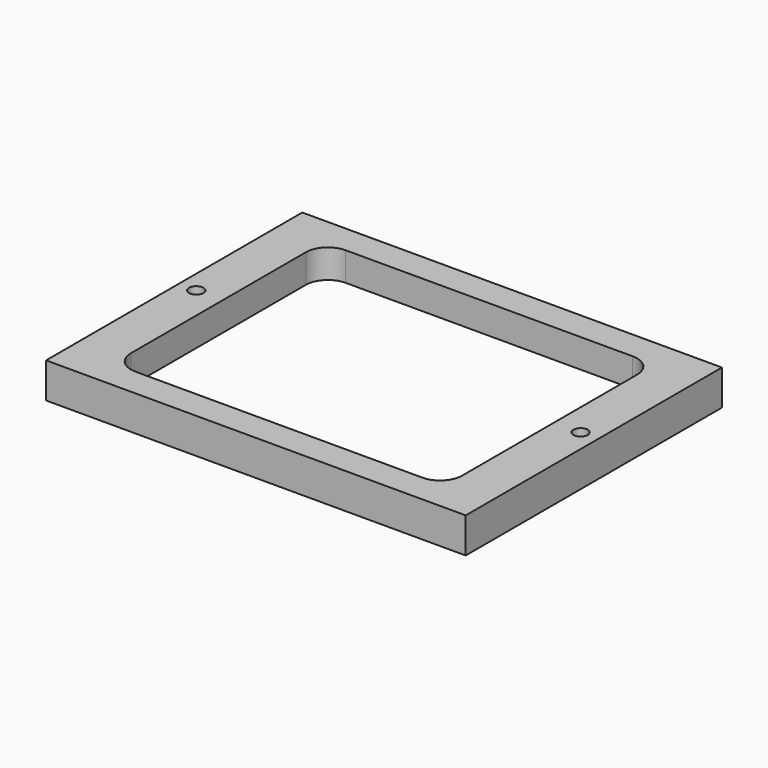
from build123d import *

# Parameters (mm, degrees)
CYLINDER026_R     = 3.25
CYLINDER026_DEPTH = 26
ARRAY008_X_COUNT  = 2
ARRAY008_X_PITCH  = 174
BOX047_W          = 170
BOX047_H          = 140
BOX047_DEPTH      = 3
BOX046_W          = 150
BOX046_H          = 119
BOX046_DEPTH      = 16
BOX045_W          = 190
BOX045_H          = 145
BOX045_DEPTH      = 16
FILLET_R          = 10


with BuildPart() as array008:
    # Cylinder026 → Cylinder026 (new body)
    with BuildSketch(Plane(origin=(8, 75, 0), x_dir=(1, 0, 0), z_dir=(0, 0, 1))):
        Circle(CYLINDER026_R)
    extrude(amount=CYLINDER026_DEPTH)

    # Array008 X: Array008 ×2


with BuildPart() as array008_1:
    add(array008.part)
    with Locations(*[(i * ARRAY008_X_PITCH, 0, 0) for i in range(1, ARRAY008_X_COUNT)]):
        add(array008.part)


with BuildPart() as cubo034:
    # Box047 → Box047 (new body)
    with BuildSketch(Plane(origin=(10, 3, 0), x_dir=(1, 0, 0), z_dir=(0, 0, 1))):
        with Locations((85, 70)):
            Rectangle(BOX047_W, BOX047_H)
    extrude(amount=BOX047_DEPTH)


with BuildPart() as fusion025:
    # Box046 → Box046 (new body)
    with BuildSketch(Plane(origin=(20, 13, 0), x_dir=(1, 0, 0), z_dir=(0, 0, 1))):
        with Locations((75, 59.5)):
            Rectangle(BOX046_W, BOX046_H)
    extrude(amount=BOX046_DEPTH)

    # Fusion025: union Cubo034
    add(cubo034.part)


with BuildPart() as obj1:
    # Box045 → Box045 (new body)
    with BuildSketch(Plane.XY):
        with Locations((95, 72.5)):
            Rectangle(BOX045_W, BOX045_H)
    extrude(amount=BOX045_DEPTH)

    # Cut033: cut Fusion025
    add(fusion025.part, mode=Mode.SUBTRACT)

    # Cut034: cut Array008
    add(array008_1.part, mode=Mode.SUBTRACT)

    # Fillet
    fillet_edges = [obj1.edges().sort_by_distance(p)[0] for p in [
        (170, 132, 9.5),
        (20, 132, 9.5),
        (170, 13, 9.5),
        (20, 13, 9.5),
    ]]
    fillet(fillet_edges, radius=FILLET_R)


with BuildPart() as obj1_1:
    # Fillet placement: moved
    add(obj1.part.moved(Location((-74, -75, -74))))


solid = obj1_1.part
